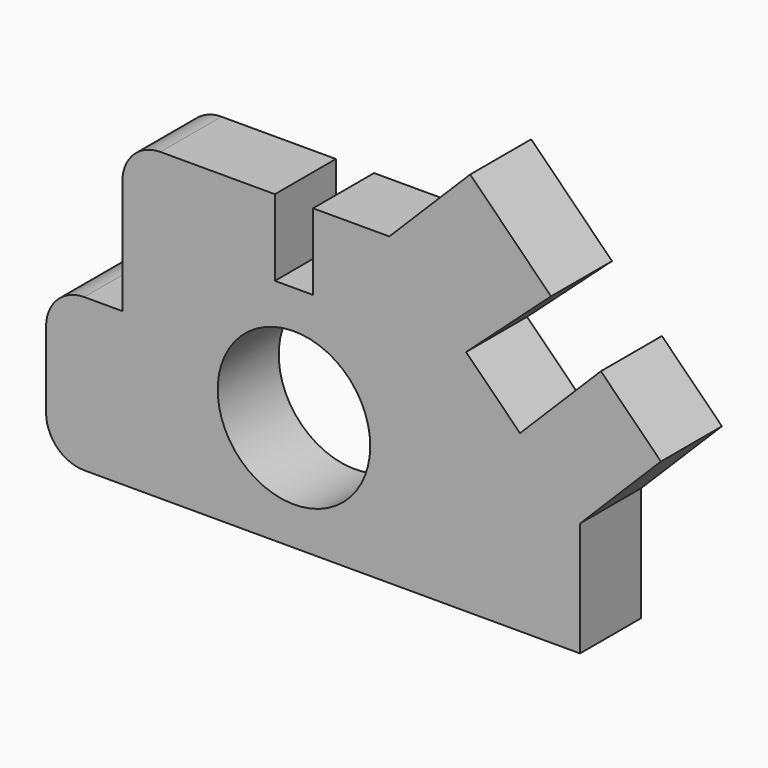
from build123d import *

# Parameters (mm, degrees)
F0_R     = 254
F1_DEPTH = 254


with BuildPart() as f1:
    # F0 (on Front) → F1 (new body)
    with BuildSketch(Plane.XZ):
        with BuildLine():
            ThreePointArc((0, 127), (37.197439, 37.197439), (127, 0))
            Line((127, 0), (1778, 0))
            Line((1778, 0), (1778, 381))
            Line((1778, 381), (2047.407684, 650.407684))
            Line((2047.407684, 650.407684), (1847.635687, 850.179681))
            Line((1847.635687, 850.179681), (1578.228003, 580.771997))
            Line((1578.228003, 580.771997), (1398.622881, 760.377119))
            Line((1398.622881, 760.377119), (1681.462253, 1015.647348))
            Line((1681.462253, 1015.647348), (1412.407684, 1285.407684))
            Line((1412.407684, 1285.407684), (1143, 1016))
            Line((1143, 1016), (889, 1016))
            Line((889, 1016), (889, 762))
            Line((889, 762), (762, 762))
            Line((762, 762), (762, 1016))
            Line((762, 1016), (381, 1016))
            ThreePointArc((381, 1016), (291.197439, 978.802561), (254, 889))
            Line((254, 889), (254, 508))
            Line((254, 508), (127, 508))
            ThreePointArc((127, 508), (37.197439, 470.802561), (0, 381))
            Line((0, 381), (0, 127))
        make_face()
        with Locations((825.5, 381)):
            Circle(F0_R, mode=Mode.SUBTRACT)
    extrude(amount=F1_DEPTH)


solid = f1.part
